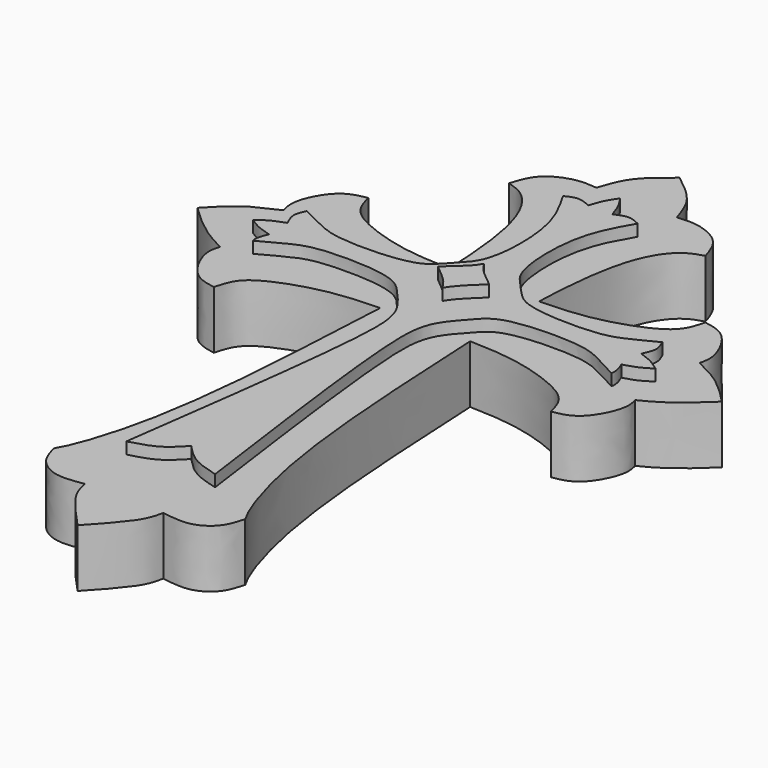
from build123d import *

# Parameters (mm, degrees)
F1_DEPTH = 10
F2_DEPTH = 12
F3_DEPTH = 14


with BuildPart() as f1:
    # F0 (on Top) → F1 (new body)
    with BuildSketch(Plane.XY):
        with BuildLine():
            add(Edge.make_bspline(
                [(0.1014076406, 61.9577938318), (0.954361215, 61.3010993563), (2.7436721339, 59.9234973031), (5.6276290782, 57.0164074844), (6.5554247073, 54.154872164), (7.0345632266, 52.6770986617)],
                knots=[0, 0, 0, 0, 0.3057966432, 0.6414947883, 1, 1, 1, 1], degree=3))
            add(Edge.make_bspline(
                [(0.1014076406, 61.9577938318), (-0.7515459338, 61.3010993563), (-2.5408568527, 59.9234973031), (-5.4248137969, 57.0164074844), (-6.3526094261, 54.154872164), (-6.8317479454, 52.6770986617)],
                knots=[0, 0, 0, 0, 0.3057966432, 0.6414947883, 1, 1, 1, 1], degree=3))
            add(Edge.make_bspline(
                [(-6.8317479454, 52.6770986617), (-7.906279476, 52.7858826105), (-10.2840624824, 53.0266057699), (-15.4052346588, 50.9526779557), (-16.3885675207, 47.8406773322), (-16.8710257858, 46.3138185441)],
                knots=[0, 0, 0, 0, 0.2957603081, 0.6544748242, 1, 1, 1, 1], degree=3))
            add(Edge.make_bspline(
                [(-16.8710257858, 46.3138185441), (-15.859204094, 46.0103472108), (-13.4500881853, 45.2877914257), (-9.5408185825, 39.8837783632), (-7.9165230141, 29.0736674181), (-7.7429569691, 24.1055755124), (-7.6652751304, 21.8820385635)],
                knots=[0, 0, 0, 0, 0.1755646521, 0.4180139641, 0.7395242521, 1, 1, 1, 1], degree=3))
            add(Edge.make_bspline(
                [(-7.6652751304, 21.8820385635), (-10.492757627, 21.9761960222), (-16.1983436279, 22.1661966601), (-24.9479504599, 25.1117401981), (-28.1166092948, 27.7895260411), (-28.7259905987, 30.0409750292), (-29.017707333, 31.1187654734)],
                knots=[0, 0, 0, 0, 0.3034774005, 0.6123880201, 0.8144463897, 1, 1, 1, 1], degree=3))
            add(Edge.make_bspline(
                [(-29.017707333, 31.1187654734), (-30.3754813497, 30.8724833109), (-33.4248252327, 30.2894271729), (-36.5554717624, 24.2035085595), (-35.8981996995, 21.971429274), (-35.699557513, 21.1569704115)],
                knots=[0, 0, 0, 0, 0.3285656129, 0.726078855, 1, 1, 1, 1], degree=3))
            add(Edge.make_bspline(
                [(-35.699557513, 21.1569704115), (-37.3595884319, 20.338129847), (-40.9329025813, 19.0198125896), (-43.7381981808, 15.9567915081), (-45.2119670808, 14.4446752965)],
                knots=[0, 0, 0, 0, 0.4863337241, 1, 1, 1, 1], degree=3))
            add(Edge.make_bspline(
                [(-45.2119670808, 14.4446752965), (-43.600477331, 12.9078502), (-40.4929083055, 10.0460968445), (-37.224840463, 8.2106239827), (-35.699557513, 7.4871424586)],
                knots=[0, 0, 0, 0, 0.5249342381, 1, 1, 1, 1], degree=3))
            add(Edge.make_bspline(
                [(-29.017707333, -2.2294148803), (-30.3913436055, -1.9802555154), (-33.4101636421, -1.4299130955), (-36.5413064856, 4.7188956717), (-35.8920483958, 6.6979047435), (-35.699557513, 7.4871424586)],
                knots=[0, 0, 0, 0, 0.3324040953, 0.7345613037, 1, 1, 1, 1], degree=3))
            add(Edge.make_bspline(
                [(-7.6652751304, 7.0073120296), (-10.492757627, 6.9131545709), (-16.1983436279, 6.723153933), (-24.9479504599, 3.777610395), (-28.1166092948, 1.099824552), (-28.7259905987, -1.1516244361), (-29.017707333, -2.2294148803)],
                knots=[0, 0, 0, 0, 0.3034774005, 0.6123880201, 0.8144463897, 1, 1, 1, 1], degree=3))
            add(Edge.make_bspline(
                [(-7.6652751304, 7.0073120296), (-8.1597910045, -3.0193557632), (-9.0551251015, -21.1729035578), (-11.6235379743, -39.6382899998), (-14.9144580867, -49.799788063), (-16.0538983329, -51.832004042), (-16.4499469101, -52.5383651257)],
                knots=[0, 0, 0, 0, 0.3690860291, 0.6682400382, 0.8846863087, 1, 1, 1, 1], degree=3))
            add(Edge.make_bspline(
                [(-16.4499469101, -52.5383651257), (-16.1071832199, -53.7438275058), (-15.4051251155, -56.2128890127), (-11.6130590116, -58.7752997133), (-8.3708604264, -58.2640786452), (-6.6734114662, -57.996429503)],
                knots=[0, 0, 0, 0, 0.3124928328, 0.6400564939, 1, 1, 1, 1], degree=3))
            add(Edge.make_bspline(
                [(-6.6734114662, -57.996429503), (-6.474290711, -58.9649366095), (-5.9455414831, -61.5367297117), (-2.2207013828, -65.5440165403), (0.1014076406, -68.0422061682)],
                knots=[0, 0, 0, 0, 0.3765882666, 1, 1, 1, 1], degree=3))
            add(Edge.make_bspline(
                [(6.8762267474, -57.996429503), (6.6771059922, -58.9649366095), (6.1483567643, -61.5367297117), (2.423516664, -65.5440165403), (0.1014076406, -68.0422061682)],
                knots=[0, 0, 0, 0, 0.3765882666, 1, 1, 1, 1], degree=3))
            add(Edge.make_bspline(
                [(16.6527621914, -52.5383651257), (16.3099985011, -53.7438275058), (15.6079403968, -56.2128890127), (11.8158742928, -58.7752997133), (8.5736757076, -58.2640786452), (6.8762267474, -57.996429503)],
                knots=[0, 0, 0, 0, 0.3124928328, 0.6400564939, 1, 1, 1, 1], degree=3))
            add(Edge.make_bspline(
                [(7.8680904116, 7.0073120296), (8.3626062857, -3.0193557632), (9.2579403827, -21.1729035578), (11.8263532556, -39.6382899998), (15.1172733679, -49.799788063), (16.2567136141, -51.832004042), (16.6527621914, -52.5383651257)],
                knots=[0, 0, 0, 0, 0.3690860291, 0.6682400382, 0.8846863087, 1, 1, 1, 1], degree=3))
            add(Edge.make_bspline(
                [(7.8680904116, 7.0073120296), (10.6955729082, 6.9131545709), (16.4011589092, 6.723153933), (25.1507657412, 3.777610395), (28.319424576, 1.099824552), (28.9288058799, -1.1516244361), (29.2205226142, -2.2294148803)],
                knots=[0, 0, 0, 0, 0.3034774005, 0.6123880201, 0.8144463897, 1, 1, 1, 1], degree=3))
            add(Edge.make_bspline(
                [(29.2205226142, -2.2294148803), (30.5947005411, -1.9801572665), (33.6314198346, -1.4293367433), (36.6744333064, 4.7141705712), (36.1904010374, 6.6987659795), (35.9981202055, 7.4871424586)],
                knots=[0, 0, 0, 0, 0.3325351695, 0.7348509571, 1, 1, 1, 1], degree=3))
            add(Edge.make_bspline(
                [(45.4147823621, 14.4446752965), (43.7973330888, 12.9021667974), (40.6734151896, 10.0683778698), (37.5171703214, 8.2076675868), (35.9981202055, 7.4871424586)],
                knots=[0, 0, 0, 0, 0.5268755212, 1, 1, 1, 1], degree=3))
            add(Edge.make_bspline(
                [(35.9981202055, 21.4022081345), (37.6605797379, 20.582169612), (41.0739373497, 18.8984686387), (43.9430548471, 15.9546970064), (45.4147823621, 14.4446752965)],
                knots=[0, 0, 0, 0, 0.4870452269, 1, 1, 1, 1], degree=3))
            add(Edge.make_bspline(
                [(29.2205226142, 31.1187654734), (30.5947005411, 30.8695078596), (33.6314198346, 30.3186873364), (36.6744333064, 24.1751800219), (36.1904010374, 22.1905846136), (35.9981202055, 21.4022081345)],
                knots=[0, 0, 0, 0, 0.3325351695, 0.7348509571, 1, 1, 1, 1], degree=3))
            add(Edge.make_bspline(
                [(7.8680904116, 21.8820385635), (10.6955729082, 21.9761960222), (16.4011589092, 22.1661966601), (25.1507657412, 25.1117401981), (28.319424576, 27.7895260411), (28.9288058799, 30.0409750292), (29.2205226142, 31.1187654734)],
                knots=[0, 0, 0, 0, 0.3034774005, 0.6123880201, 0.8144463897, 1, 1, 1, 1], degree=3))
            add(Edge.make_bspline(
                [(17.073841067, 46.3138185441), (16.0620193752, 46.0103472108), (13.6529034666, 45.2877914257), (9.7436338637, 39.8837783632), (8.1193382954, 29.0736674181), (7.9457722504, 24.1055755124), (7.8680904116, 21.8820385635)],
                knots=[0, 0, 0, 0, 0.1755646521, 0.4180139641, 0.7395242521, 1, 1, 1, 1], degree=3))
            add(Edge.make_bspline(
                [(7.0345632266, 52.6770986617), (8.1090947572, 52.7858826105), (10.4868777636, 53.0266057699), (15.60804994, 50.9526779557), (16.5913828019, 47.8406773322), (17.073841067, 46.3138185441)],
                knots=[0, 0, 0, 0, 0.2957603081, 0.6544748242, 1, 1, 1, 1], degree=3))
        make_face()
        with BuildLine():
            add(Edge.make_bspline(
                [(-6.2475241721, 19.9928432703), (-7.4120322242, 18.8283342868), (-9.0772243696, 16.4219739556), (-22.4628331291, 16.0432251762), (-26.5916806995, 17.892114532), (-29.351299037, 19.2900587809), (-30.6937798086, 19.9679946213)],
                knots=[0, 0, 0, 0, 0.2119206806, 0.5674703031, 0.7889656445, 1, 1, 1, 1], degree=3))
            add(Edge.make_bspline(
                [(-6.2475241721, 19.9928432703), (-4.9418634735, 21.5455200523), (-2.195236644, 23.4343820065), (-1.8492825295, 37.1866281605), (-5.0187857268, 42.4829165455), (-6.4469845966, 44.9578128755)],
                knots=[0, 0, 0, 0, 0.2571215725, 0.6567282101, 1, 1, 1, 1], degree=3))
            add(Edge.make_bspline(
                [(-6.4469845966, 44.9578128755), (-5.7812927219, 45.2868271108), (-4.4074798499, 45.9658259219), (-2.873376747, 45.3006648817), (-2.0826354157, 44.9578128755)],
                knots=[0, 0, 0, 0, 0.4845578959, 1, 1, 1, 1], degree=3))
            add(Edge.make_bspline(
                [(-2.0826354157, 44.9578128755), (-1.8499155992, 45.6967286329), (-1.3780634889, 47.1949205989), (-0.4634974848, 48.5509845785), (0, 49.2382310331)],
                knots=[0, 0, 0, 0, 0.4932049926, 1, 1, 1, 1], degree=3))
            add(Edge.make_bspline(
                [(2.0826354157, 44.9578128755), (1.8499155992, 45.6967286329), (1.3780634889, 47.1949205989), (0.4634974848, 48.5509845785), (0, 49.2382310331)],
                knots=[0, 0, 0, 0, 0.4932049926, 1, 1, 1, 1], degree=3))
            add(Edge.make_bspline(
                [(6.4469845966, 44.9578128755), (5.7812927219, 45.2868271108), (4.4074798499, 45.9658259219), (2.873376747, 45.3006648817), (2.0826354157, 44.9578128755)],
                knots=[0, 0, 0, 0, 0.4845578959, 1, 1, 1, 1], degree=3))
            add(Edge.make_bspline(
                [(6.2475241721, 19.9928432703), (4.9418634735, 21.5455200523), (2.195236644, 23.4343820065), (1.8492825295, 37.1866281605), (5.0187857268, 42.4829165455), (6.4469845966, 44.9578128755)],
                knots=[0, 0, 0, 0, 0.2571215725, 0.6567282101, 1, 1, 1, 1], degree=3))
            add(Edge.make_bspline(
                [(6.2475241721, 19.9928432703), (7.4120322242, 18.8283342868), (9.0772243696, 16.4219739556), (22.4628331291, 16.0432251762), (26.5916806995, 17.892114532), (29.351299037, 19.2900587809), (30.6937798086, 19.9679946213)],
                knots=[0, 0, 0, 0, 0.2119206806, 0.5674703031, 0.7889656445, 1, 1, 1, 1], degree=3))
            add(Edge.make_bspline(
                [(30.6937798086, 19.9679946213), (31.0025570657, 19.292677922), (31.6397920787, 17.8990019442), (30.9286425886, 16.3856685564), (30.562086199, 15.6056328109)],
                knots=[0, 0, 0, 0, 0.4845578959, 1, 1, 1, 1], degree=3))
            add(Edge.make_bspline(
                [(30.562086199, 15.6056328109), (31.2936431933, 15.3507222899), (32.7769148659, 14.833877317), (34.1047644441, 13.8788087383), (34.777711981, 13.3947847508)],
                knots=[0, 0, 0, 0, 0.4932049926, 1, 1, 1, 1], degree=3))
            add(Edge.make_bspline(
                [(30.4363997501, 11.4422586966), (31.1820013184, 11.6525758639), (32.6937491303, 12.0790053821), (34.0767925041, 12.9522358893), (34.777711981, 13.3947847508)],
                knots=[0, 0, 0, 0, 0.4932049926, 1, 1, 1, 1], degree=3))
            add(Edge.make_bspline(
                [(30.9709027418, 8.630918954), (31.0062666027, 8.7830986867), (31.1407603091, 9.6733196382), (30.7552351275, 10.6415319309), (30.4363997501, 11.4422586966)],
                knots=[0.3767444741, 0.3767444741, 0.3767444741, 0.3767444741, 0.4845578959, 1, 1, 1, 1], degree=3))
            add(Edge.make_bspline(
                [(30.9709027418, 8.630918954), (29.5246288062, 9.4289146334), (26.6187145772, 11.0305169118), (22.4436052562, 12.8105240345), (9.2381482248, 12.5328451), (6.391043492, 8.958603535), (2.2422465836, 4.6124279422), (1.8824337479, -5.8012352421), (5.3139361283, -30.6968737787), (7.6652751304, -47.8178448975)],
                knots=[0, 0, 0, 0, 0.0995656771, 0.1998112071, 0.3607277307, 0.4566399101, 0.5601795056, 0.6975132768, 1, 1, 1, 1], degree=3))
            add(Edge.make_bspline(
                [(7.6652751304, -47.8178448975), (6.073980476, -47.3795194082), (2.9859563058, -46.5289165977), (0.9747893217, -44.4004914999), (0, -43.3688685298)],
                knots=[0, 0, 0, 0, 0.515311593, 1, 1, 1, 1], degree=3))
            add(Edge.make_bspline(
                [(-7.6652751304, -47.8178448975), (-6.073980476, -47.3795194082), (-2.9859563058, -46.5289165977), (-0.9747893217, -44.4004914999), (0, -43.3688685298)],
                knots=[0, 0, 0, 0, 0.515311593, 1, 1, 1, 1], degree=3))
            add(Edge.make_bspline(
                [(-30.9709027418, 8.630918954), (-29.5246288062, 9.4289146334), (-26.6187145772, 11.0305169118), (-22.4436052562, 12.8105240345), (-9.2381482248, 12.5328451), (-6.391043492, 8.958603535), (-2.2422465836, 4.6124279422), (-1.8824337479, -5.8012352421), (-5.3139361283, -30.6968737787), (-7.6652751304, -47.8178448975)],
                knots=[0, 0, 0, 0, 0.0995656771, 0.1998112071, 0.3607277307, 0.4566399101, 0.5601795056, 0.6975132768, 1, 1, 1, 1], degree=3))
            add(Edge.make_bspline(
                [(-30.9709027418, 8.630918954), (-31.0062666027, 8.7830986867), (-31.1407603091, 9.6733196382), (-30.7552351275, 10.6415319309), (-30.4363997501, 11.4422586966)],
                knots=[0.3767444741, 0.3767444741, 0.3767444741, 0.3767444741, 0.4845578959, 1, 1, 1, 1], degree=3))
            add(Edge.make_bspline(
                [(-30.4363997501, 11.4422586966), (-31.1820013184, 11.6525758639), (-32.6937491303, 12.0790053821), (-34.0767925041, 12.9522358893), (-34.777711981, 13.3947847508)],
                knots=[0, 0, 0, 0, 0.4932049926, 1, 1, 1, 1], degree=3))
            add(Edge.make_bspline(
                [(-30.562086199, 15.6056328109), (-31.2936431933, 15.3507222899), (-32.7769148659, 14.833877317), (-34.1047644441, 13.8788087383), (-34.777711981, 13.3947847508)],
                knots=[0, 0, 0, 0, 0.4932049926, 1, 1, 1, 1], degree=3))
            add(Edge.make_bspline(
                [(-30.6937798086, 19.9679946213), (-31.0025570657, 19.292677922), (-31.6397920787, 17.8990019442), (-30.9286425886, 16.3856685564), (-30.562086199, 15.6056328109)],
                knots=[0, 0, 0, 0, 0.4845578959, 1, 1, 1, 1], degree=3))
        make_face(mode=Mode.SUBTRACT)
        with BuildLine():
            add(Edge.make_bspline(
                [(-6.2475241721, 19.9928432703), (-4.9418634735, 21.5455200523), (-2.195236644, 23.4343820065), (-1.8492825295, 37.1866281605), (-5.0187857268, 42.4829165455), (-6.4469845966, 44.9578128755)],
                knots=[0, 0, 0, 0, 0.2571215725, 0.6567282101, 1, 1, 1, 1], degree=3))
            add(Edge.make_bspline(
                [(-6.2475241721, 19.9928432703), (-7.4120322242, 18.8283342868), (-9.0772243696, 16.4219739556), (-22.4628331291, 16.0432251762), (-26.5916806995, 17.892114532), (-29.351299037, 19.2900587809), (-30.6937798086, 19.9679946213)],
                knots=[0, 0, 0, 0, 0.2119206806, 0.5674703031, 0.7889656445, 1, 1, 1, 1], degree=3))
            add(Edge.make_bspline(
                [(-30.6937798086, 19.9679946213), (-31.0025570657, 19.292677922), (-31.6397920787, 17.8990019442), (-30.9286425886, 16.3856685564), (-30.562086199, 15.6056328109)],
                knots=[0, 0, 0, 0, 0.4845578959, 1, 1, 1, 1], degree=3))
            add(Edge.make_bspline(
                [(-30.562086199, 15.6056328109), (-31.2936431933, 15.3507222899), (-32.7769148659, 14.833877317), (-34.1047644441, 13.8788087383), (-34.777711981, 13.3947847508)],
                knots=[0, 0, 0, 0, 0.4932049926, 1, 1, 1, 1], degree=3))
            add(Edge.make_bspline(
                [(-30.4363997501, 11.4422586966), (-31.1820013184, 11.6525758639), (-32.6937491303, 12.0790053821), (-34.0767925041, 12.9522358893), (-34.777711981, 13.3947847508)],
                knots=[0, 0, 0, 0, 0.4932049926, 1, 1, 1, 1], degree=3))
            add(Edge.make_bspline(
                [(-30.9709027418, 8.630918954), (-31.0062666027, 8.7830986867), (-31.1407603091, 9.6733196382), (-30.7552351275, 10.6415319309), (-30.4363997501, 11.4422586966)],
                knots=[0.3767444741, 0.3767444741, 0.3767444741, 0.3767444741, 0.4845578959, 1, 1, 1, 1], degree=3))
            add(Edge.make_bspline(
                [(-30.9709027418, 8.630918954), (-29.5246288062, 9.4289146334), (-26.6187145772, 11.0305169118), (-22.4436052562, 12.8105240345), (-9.2381482248, 12.5328451), (-6.391043492, 8.958603535), (-2.2422465836, 4.6124279422), (-1.8824337479, -5.8012352421), (-5.3139361283, -30.6968737787), (-7.6652751304, -47.8178448975)],
                knots=[0, 0, 0, 0, 0.0995656771, 0.1998112071, 0.3607277307, 0.4566399101, 0.5601795056, 0.6975132768, 1, 1, 1, 1], degree=3))
            add(Edge.make_bspline(
                [(-7.6652751304, -47.8178448975), (-6.073980476, -47.3795194082), (-2.9859563058, -46.5289165977), (-0.9747893217, -44.4004914999), (0, -43.3688685298)],
                knots=[0, 0, 0, 0, 0.515311593, 1, 1, 1, 1], degree=3))
            add(Edge.make_bspline(
                [(7.6652751304, -47.8178448975), (6.073980476, -47.3795194082), (2.9859563058, -46.5289165977), (0.9747893217, -44.4004914999), (0, -43.3688685298)],
                knots=[0, 0, 0, 0, 0.515311593, 1, 1, 1, 1], degree=3))
            add(Edge.make_bspline(
                [(30.9709027418, 8.630918954), (29.5246288062, 9.4289146334), (26.6187145772, 11.0305169118), (22.4436052562, 12.8105240345), (9.2381482248, 12.5328451), (6.391043492, 8.958603535), (2.2422465836, 4.6124279422), (1.8824337479, -5.8012352421), (5.3139361283, -30.6968737787), (7.6652751304, -47.8178448975)],
                knots=[0, 0, 0, 0, 0.0995656771, 0.1998112071, 0.3607277307, 0.4566399101, 0.5601795056, 0.6975132768, 1, 1, 1, 1], degree=3))
            add(Edge.make_bspline(
                [(30.9709027418, 8.630918954), (31.0062666027, 8.7830986867), (31.1407603091, 9.6733196382), (30.7552351275, 10.6415319309), (30.4363997501, 11.4422586966)],
                knots=[0.3767444741, 0.3767444741, 0.3767444741, 0.3767444741, 0.4845578959, 1, 1, 1, 1], degree=3))
            add(Edge.make_bspline(
                [(30.4363997501, 11.4422586966), (31.1820013184, 11.6525758639), (32.6937491303, 12.0790053821), (34.0767925041, 12.9522358893), (34.777711981, 13.3947847508)],
                knots=[0, 0, 0, 0, 0.4932049926, 1, 1, 1, 1], degree=3))
            add(Edge.make_bspline(
                [(30.562086199, 15.6056328109), (31.2936431933, 15.3507222899), (32.7769148659, 14.833877317), (34.1047644441, 13.8788087383), (34.777711981, 13.3947847508)],
                knots=[0, 0, 0, 0, 0.4932049926, 1, 1, 1, 1], degree=3))
            add(Edge.make_bspline(
                [(30.6937798086, 19.9679946213), (31.0025570657, 19.292677922), (31.6397920787, 17.8990019442), (30.9286425886, 16.3856685564), (30.562086199, 15.6056328109)],
                knots=[0, 0, 0, 0, 0.4845578959, 1, 1, 1, 1], degree=3))
            add(Edge.make_bspline(
                [(6.2475241721, 19.9928432703), (7.4120322242, 18.8283342868), (9.0772243696, 16.4219739556), (22.4628331291, 16.0432251762), (26.5916806995, 17.892114532), (29.351299037, 19.2900587809), (30.6937798086, 19.9679946213)],
                knots=[0, 0, 0, 0, 0.2119206806, 0.5674703031, 0.7889656445, 1, 1, 1, 1], degree=3))
            add(Edge.make_bspline(
                [(6.2475241721, 19.9928432703), (4.9418634735, 21.5455200523), (2.195236644, 23.4343820065), (1.8492825295, 37.1866281605), (5.0187857268, 42.4829165455), (6.4469845966, 44.9578128755)],
                knots=[0, 0, 0, 0, 0.2571215725, 0.6567282101, 1, 1, 1, 1], degree=3))
            add(Edge.make_bspline(
                [(6.4469845966, 44.9578128755), (5.7812927219, 45.2868271108), (4.4074798499, 45.9658259219), (2.873376747, 45.3006648817), (2.0826354157, 44.9578128755)],
                knots=[0, 0, 0, 0, 0.4845578959, 1, 1, 1, 1], degree=3))
            add(Edge.make_bspline(
                [(2.0826354157, 44.9578128755), (1.8499155992, 45.6967286329), (1.3780634889, 47.1949205989), (0.4634974848, 48.5509845785), (0, 49.2382310331)],
                knots=[0, 0, 0, 0, 0.4932049926, 1, 1, 1, 1], degree=3))
            add(Edge.make_bspline(
                [(-2.0826354157, 44.9578128755), (-1.8499155992, 45.6967286329), (-1.3780634889, 47.1949205989), (-0.4634974848, 48.5509845785), (0, 49.2382310331)],
                knots=[0, 0, 0, 0, 0.4932049926, 1, 1, 1, 1], degree=3))
            add(Edge.make_bspline(
                [(-6.4469845966, 44.9578128755), (-5.7812927219, 45.2868271108), (-4.4074798499, 45.9658259219), (-2.873376747, 45.3006648817), (-2.0826354157, 44.9578128755)],
                knots=[0, 0, 0, 0, 0.4845578959, 1, 1, 1, 1], degree=3))
        make_face()
        with BuildLine():
            add(Edge.make_bspline(
                [(0, 19.8692958802), (-0.5091184692, 18.9927300802), (-1.6443665974, 17.657051399), (-3.5309528445, 16.130409947), (-4.3738274835, 15.35889972)],
                knots=[0, 0, 0, 0, 0.4712637049, 1, 1, 1, 1], degree=3))
            add(Edge.make_bspline(
                [(0, 19.8692958802), (0.5177197701, 18.9779209412), (1.6244095645, 17.6067245986), (3.460698552, 16.356181937), (4.290881101, 15.5962891877)],
                knots=[0, 0, 0, 0, 0.4792254686, 1, 1, 1, 1], degree=3))
            add(Edge.make_bspline(
                [(0, 10.8485035598), (0.5103139931, 11.7271277322), (1.6734242927, 13.1059207003), (3.4497705786, 14.8263937132), (4.290881101, 15.5962891877)],
                knots=[0, 0, 0, 0, 0.4723703374, 1, 1, 1, 1], degree=3))
            add(Edge.make_bspline(
                [(0, 10.8485035598), (-0.5141213668, 11.7336830111), (-1.6105757873, 13.1859813026), (-3.5383351262, 14.5941467326), (-4.3738274835, 15.35889972)],
                knots=[0, 0, 0, 0, 0.4758946193, 1, 1, 1, 1], degree=3))
        make_face(mode=Mode.SUBTRACT)
        with BuildLine():
            add(Edge.make_bspline(
                [(0, 19.8692958802), (0.5177197701, 18.9779209412), (1.6244095645, 17.6067245986), (3.460698552, 16.356181937), (4.290881101, 15.5962891877)],
                knots=[0, 0, 0, 0, 0.4792254686, 1, 1, 1, 1], degree=3))
            add(Edge.make_bspline(
                [(0, 19.8692958802), (-0.5091184692, 18.9927300802), (-1.6443665974, 17.657051399), (-3.5309528445, 16.130409947), (-4.3738274835, 15.35889972)],
                knots=[0, 0, 0, 0, 0.4712637049, 1, 1, 1, 1], degree=3))
            add(Edge.make_bspline(
                [(0, 10.8485035598), (-0.5141213668, 11.7336830111), (-1.6105757873, 13.1859813026), (-3.5383351262, 14.5941467326), (-4.3738274835, 15.35889972)],
                knots=[0, 0, 0, 0, 0.4758946193, 1, 1, 1, 1], degree=3))
            add(Edge.make_bspline(
                [(0, 10.8485035598), (0.5103139931, 11.7271277322), (1.6734242927, 13.1059207003), (3.4497705786, 14.8263937132), (4.290881101, 15.5962891877)],
                knots=[0, 0, 0, 0, 0.4723703374, 1, 1, 1, 1], degree=3))
        make_face()
    extrude(amount=F1_DEPTH)

    # F0 (on Top) → F2 (join)
    with BuildSketch(Plane.XY):
        with BuildLine():
            add(Edge.make_bspline(
                [(-6.2475241721, 19.9928432703), (-4.9418634735, 21.5455200523), (-2.195236644, 23.4343820065), (-1.8492825295, 37.1866281605), (-5.0187857268, 42.4829165455), (-6.4469845966, 44.9578128755)],
                knots=[0, 0, 0, 0, 0.2571215725, 0.6567282101, 1, 1, 1, 1], degree=3))
            add(Edge.make_bspline(
                [(-6.2475241721, 19.9928432703), (-7.4120322242, 18.8283342868), (-9.0772243696, 16.4219739556), (-22.4628331291, 16.0432251762), (-26.5916806995, 17.892114532), (-29.351299037, 19.2900587809), (-30.6937798086, 19.9679946213)],
                knots=[0, 0, 0, 0, 0.2119206806, 0.5674703031, 0.7889656445, 1, 1, 1, 1], degree=3))
            add(Edge.make_bspline(
                [(-30.6937798086, 19.9679946213), (-31.0025570657, 19.292677922), (-31.6397920787, 17.8990019442), (-30.9286425886, 16.3856685564), (-30.562086199, 15.6056328109)],
                knots=[0, 0, 0, 0, 0.4845578959, 1, 1, 1, 1], degree=3))
            add(Edge.make_bspline(
                [(-30.562086199, 15.6056328109), (-31.2936431933, 15.3507222899), (-32.7769148659, 14.833877317), (-34.1047644441, 13.8788087383), (-34.777711981, 13.3947847508)],
                knots=[0, 0, 0, 0, 0.4932049926, 1, 1, 1, 1], degree=3))
            add(Edge.make_bspline(
                [(-30.4363997501, 11.4422586966), (-31.1820013184, 11.6525758639), (-32.6937491303, 12.0790053821), (-34.0767925041, 12.9522358893), (-34.777711981, 13.3947847508)],
                knots=[0, 0, 0, 0, 0.4932049926, 1, 1, 1, 1], degree=3))
            add(Edge.make_bspline(
                [(-30.9709027418, 8.630918954), (-31.0062666027, 8.7830986867), (-31.1407603091, 9.6733196382), (-30.7552351275, 10.6415319309), (-30.4363997501, 11.4422586966)],
                knots=[0.3767444741, 0.3767444741, 0.3767444741, 0.3767444741, 0.4845578959, 1, 1, 1, 1], degree=3))
            add(Edge.make_bspline(
                [(-30.9709027418, 8.630918954), (-29.5246288062, 9.4289146334), (-26.6187145772, 11.0305169118), (-22.4436052562, 12.8105240345), (-9.2381482248, 12.5328451), (-6.391043492, 8.958603535), (-2.2422465836, 4.6124279422), (-1.8824337479, -5.8012352421), (-5.3139361283, -30.6968737787), (-7.6652751304, -47.8178448975)],
                knots=[0, 0, 0, 0, 0.0995656771, 0.1998112071, 0.3607277307, 0.4566399101, 0.5601795056, 0.6975132768, 1, 1, 1, 1], degree=3))
            add(Edge.make_bspline(
                [(-7.6652751304, -47.8178448975), (-6.073980476, -47.3795194082), (-2.9859563058, -46.5289165977), (-0.9747893217, -44.4004914999), (0, -43.3688685298)],
                knots=[0, 0, 0, 0, 0.515311593, 1, 1, 1, 1], degree=3))
            add(Edge.make_bspline(
                [(7.6652751304, -47.8178448975), (6.073980476, -47.3795194082), (2.9859563058, -46.5289165977), (0.9747893217, -44.4004914999), (0, -43.3688685298)],
                knots=[0, 0, 0, 0, 0.515311593, 1, 1, 1, 1], degree=3))
            add(Edge.make_bspline(
                [(30.9709027418, 8.630918954), (29.5246288062, 9.4289146334), (26.6187145772, 11.0305169118), (22.4436052562, 12.8105240345), (9.2381482248, 12.5328451), (6.391043492, 8.958603535), (2.2422465836, 4.6124279422), (1.8824337479, -5.8012352421), (5.3139361283, -30.6968737787), (7.6652751304, -47.8178448975)],
                knots=[0, 0, 0, 0, 0.0995656771, 0.1998112071, 0.3607277307, 0.4566399101, 0.5601795056, 0.6975132768, 1, 1, 1, 1], degree=3))
            add(Edge.make_bspline(
                [(30.9709027418, 8.630918954), (31.0062666027, 8.7830986867), (31.1407603091, 9.6733196382), (30.7552351275, 10.6415319309), (30.4363997501, 11.4422586966)],
                knots=[0.3767444741, 0.3767444741, 0.3767444741, 0.3767444741, 0.4845578959, 1, 1, 1, 1], degree=3))
            add(Edge.make_bspline(
                [(30.4363997501, 11.4422586966), (31.1820013184, 11.6525758639), (32.6937491303, 12.0790053821), (34.0767925041, 12.9522358893), (34.777711981, 13.3947847508)],
                knots=[0, 0, 0, 0, 0.4932049926, 1, 1, 1, 1], degree=3))
            add(Edge.make_bspline(
                [(30.562086199, 15.6056328109), (31.2936431933, 15.3507222899), (32.7769148659, 14.833877317), (34.1047644441, 13.8788087383), (34.777711981, 13.3947847508)],
                knots=[0, 0, 0, 0, 0.4932049926, 1, 1, 1, 1], degree=3))
            add(Edge.make_bspline(
                [(30.6937798086, 19.9679946213), (31.0025570657, 19.292677922), (31.6397920787, 17.8990019442), (30.9286425886, 16.3856685564), (30.562086199, 15.6056328109)],
                knots=[0, 0, 0, 0, 0.4845578959, 1, 1, 1, 1], degree=3))
            add(Edge.make_bspline(
                [(6.2475241721, 19.9928432703), (7.4120322242, 18.8283342868), (9.0772243696, 16.4219739556), (22.4628331291, 16.0432251762), (26.5916806995, 17.892114532), (29.351299037, 19.2900587809), (30.6937798086, 19.9679946213)],
                knots=[0, 0, 0, 0, 0.2119206806, 0.5674703031, 0.7889656445, 1, 1, 1, 1], degree=3))
            add(Edge.make_bspline(
                [(6.2475241721, 19.9928432703), (4.9418634735, 21.5455200523), (2.195236644, 23.4343820065), (1.8492825295, 37.1866281605), (5.0187857268, 42.4829165455), (6.4469845966, 44.9578128755)],
                knots=[0, 0, 0, 0, 0.2571215725, 0.6567282101, 1, 1, 1, 1], degree=3))
            add(Edge.make_bspline(
                [(6.4469845966, 44.9578128755), (5.7812927219, 45.2868271108), (4.4074798499, 45.9658259219), (2.873376747, 45.3006648817), (2.0826354157, 44.9578128755)],
                knots=[0, 0, 0, 0, 0.4845578959, 1, 1, 1, 1], degree=3))
            add(Edge.make_bspline(
                [(2.0826354157, 44.9578128755), (1.8499155992, 45.6967286329), (1.3780634889, 47.1949205989), (0.4634974848, 48.5509845785), (0, 49.2382310331)],
                knots=[0, 0, 0, 0, 0.4932049926, 1, 1, 1, 1], degree=3))
            add(Edge.make_bspline(
                [(-2.0826354157, 44.9578128755), (-1.8499155992, 45.6967286329), (-1.3780634889, 47.1949205989), (-0.4634974848, 48.5509845785), (0, 49.2382310331)],
                knots=[0, 0, 0, 0, 0.4932049926, 1, 1, 1, 1], degree=3))
            add(Edge.make_bspline(
                [(-6.4469845966, 44.9578128755), (-5.7812927219, 45.2868271108), (-4.4074798499, 45.9658259219), (-2.873376747, 45.3006648817), (-2.0826354157, 44.9578128755)],
                knots=[0, 0, 0, 0, 0.4845578959, 1, 1, 1, 1], degree=3))
        make_face()
        with BuildLine():
            add(Edge.make_bspline(
                [(0, 19.8692958802), (-0.5091184692, 18.9927300802), (-1.6443665974, 17.657051399), (-3.5309528445, 16.130409947), (-4.3738274835, 15.35889972)],
                knots=[0, 0, 0, 0, 0.4712637049, 1, 1, 1, 1], degree=3))
            add(Edge.make_bspline(
                [(0, 19.8692958802), (0.5177197701, 18.9779209412), (1.6244095645, 17.6067245986), (3.460698552, 16.356181937), (4.290881101, 15.5962891877)],
                knots=[0, 0, 0, 0, 0.4792254686, 1, 1, 1, 1], degree=3))
            add(Edge.make_bspline(
                [(0, 10.8485035598), (0.5103139931, 11.7271277322), (1.6734242927, 13.1059207003), (3.4497705786, 14.8263937132), (4.290881101, 15.5962891877)],
                knots=[0, 0, 0, 0, 0.4723703374, 1, 1, 1, 1], degree=3))
            add(Edge.make_bspline(
                [(0, 10.8485035598), (-0.5141213668, 11.7336830111), (-1.6105757873, 13.1859813026), (-3.5383351262, 14.5941467326), (-4.3738274835, 15.35889972)],
                knots=[0, 0, 0, 0, 0.4758946193, 1, 1, 1, 1], degree=3))
        make_face(mode=Mode.SUBTRACT)
    extrude(amount=F2_DEPTH)

    # F0 (on Top) → F3 (join)
    with BuildSketch(Plane.XY):
        with BuildLine():
            add(Edge.make_bspline(
                [(0, 19.8692958802), (0.5177197701, 18.9779209412), (1.6244095645, 17.6067245986), (3.460698552, 16.356181937), (4.290881101, 15.5962891877)],
                knots=[0, 0, 0, 0, 0.4792254686, 1, 1, 1, 1], degree=3))
            add(Edge.make_bspline(
                [(0, 19.8692958802), (-0.5091184692, 18.9927300802), (-1.6443665974, 17.657051399), (-3.5309528445, 16.130409947), (-4.3738274835, 15.35889972)],
                knots=[0, 0, 0, 0, 0.4712637049, 1, 1, 1, 1], degree=3))
            add(Edge.make_bspline(
                [(0, 10.8485035598), (-0.5141213668, 11.7336830111), (-1.6105757873, 13.1859813026), (-3.5383351262, 14.5941467326), (-4.3738274835, 15.35889972)],
                knots=[0, 0, 0, 0, 0.4758946193, 1, 1, 1, 1], degree=3))
            add(Edge.make_bspline(
                [(0, 10.8485035598), (0.5103139931, 11.7271277322), (1.6734242927, 13.1059207003), (3.4497705786, 14.8263937132), (4.290881101, 15.5962891877)],
                knots=[0, 0, 0, 0, 0.4723703374, 1, 1, 1, 1], degree=3))
        make_face()
    extrude(amount=F3_DEPTH)


solid = f1.part
